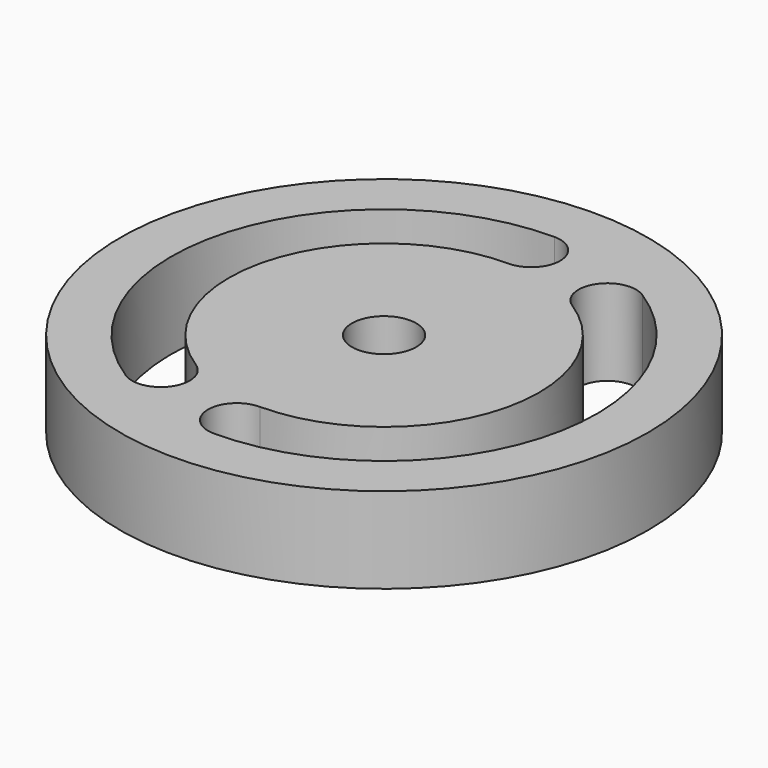
from build123d import *

# Parameters (mm, degrees)
F0_R     = 78.013982
F1_DEPTH = 25.4
F2_R     = 9.510574
F3_DEPTH = 25.401
F5_DEPTH = 25.401
F7_DEPTH = 25.401


with BuildPart() as f1:
    # F0 (on Top) → F1 (new body)
    with BuildSketch(Plane.XY):
        Circle(F0_R)
    extrude(amount=F1_DEPTH)

    # F2 (on face) → F3 (cut, through all)
    with BuildSketch(Plane.XY.offset(25.4)):
        Circle(F2_R)
    extrude(amount=-F3_DEPTH, mode=Mode.SUBTRACT)

    # F4 (on face) → F5 (cut, through all)
    with BuildSketch(Plane(origin=(0, 0, 0), x_dir=(1, 0, 0), z_dir=(0, 0, -1))):
        with BuildLine():
            ThreePointArc((33.933129, -52.977759), (60.378444, 17.678906), (0, 62.913434))
            ThreePointArc((0, 62.913434), (-8.519115, 54.39432), (0, 45.875205))
            ThreePointArc((0, 45.875205), (44.026741, 12.891101), (24.743352, -38.630312))
            ThreePointArc((24.743352, -38.630312), (22.164517, -50.398924), (33.933129, -52.977759))
        make_face()
    extrude(amount=-F5_DEPTH, mode=Mode.SUBTRACT)

    # F6 (on face) → F7 (cut, through all)
    with BuildSketch(Plane.XY.offset(25.4)):
        with BuildLine():
            ThreePointArc((-24.743352, -38.630312), (-44.026741, 12.891101), (0, 45.875205))
            ThreePointArc((0, 45.875205), (8.519115, 54.39432), (0, 62.913434))
            ThreePointArc((0, 62.913434), (-60.378444, 17.678906), (-33.933129, -52.977759))
            ThreePointArc((-33.933129, -52.977759), (-22.164517, -50.398924), (-24.743352, -38.630312))
        make_face()
    extrude(amount=-F7_DEPTH, mode=Mode.SUBTRACT)


solid = f1.part
